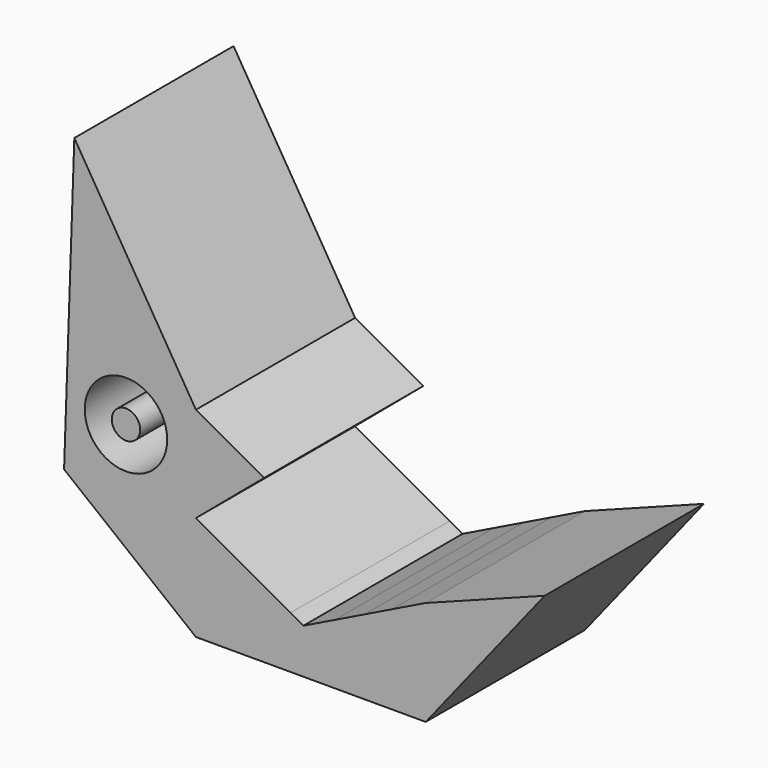
from build123d import *

# Parameters (mm, degrees)
F0_R     = 5.263084
F0_R_2   = 1.813399
F1_DEPTH = 25.4


with BuildPart() as f1:
    # F0 (on Front) → F1 (new body)
    with BuildSketch(Plane.XZ):
        Polygon((-48.41087, 17.87642), (-31.587463, 4.512495), (-2.256247, 4.512495), (12.927662, 23.62702), (-2.256247, 17.87642), (-6.525034, 15.789458), (-10.066333, 14.058156), (-13.868975, 12.199087), (-17.87642, 10.239892), (-19.51499, 11.152513), (-31.587463, 17.87642), (-22.898601, 25.208317), (-31.587463, 30.047682), (-47.103249, 55.536054), align=None)
        with Locations((-40.512998, 25.482573)):
            Circle(F0_R, mode=Mode.SUBTRACT)
        with Locations((-40.512998, 25.482573)):
            Circle(F0_R_2)
    extrude(amount=F1_DEPTH)


solid = f1.part
